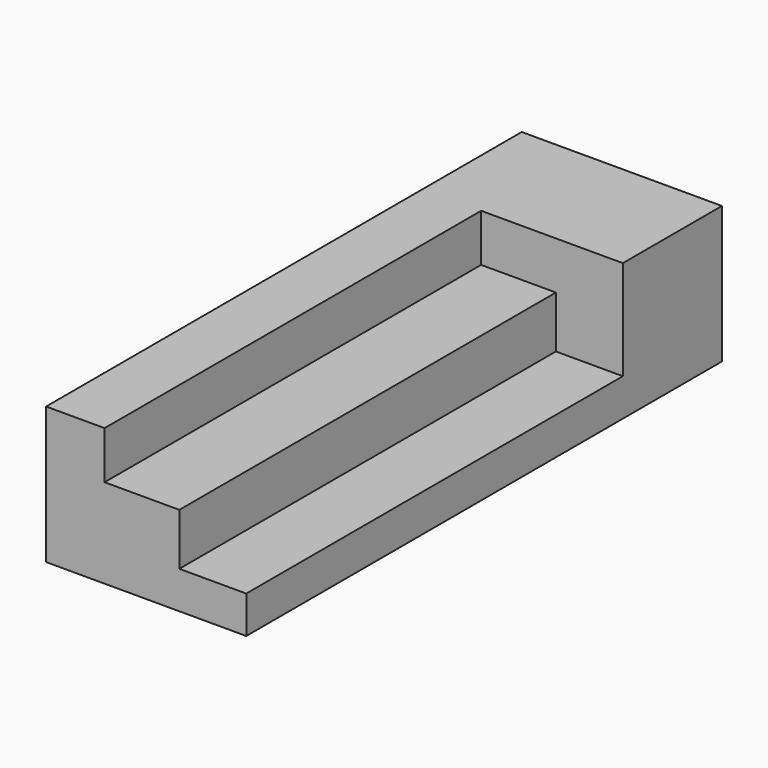
from build123d import *

# Parameters (mm, degrees)
F0_W     = 20.7835333422
F0_H     = 16.9197171926
F0_W_2   = 23.7798653543
F0_H_2   = 18.441430293
F1_DEPTH = 211.2
F2_DEPTH = 167.2


with BuildPart() as f1:
    # F0 (on Front) → F1 (new body)
    with BuildSketch(Plane.XZ):
        with Locations((-19.4875816815, 14.9991363287)):
            Rectangle(F0_W, F0_H)
        Polygon((-9.0958150104, 6.5392777324), (-29.8793483526, 6.5392777324), (-29.8793483526, -11.9021525607), (17.4585692585, -11.9021525607), (17.4585692585, 6.5392777324), align=None)
        Polygon((17.4585692585, -11.9021525607), (-29.8793483526, -11.9021525607), (-29.8793483526, -25.1875463873), (41.2384346128, -25.1875463873), (41.2384346128, -11.9021525607), align=None)
        Polygon((41.2384346128, 23.458994925), (-9.0958150104, 23.458994925), (-9.0958150104, 6.5392777324), (17.4585692585, 6.5392777324), (41.2384346128, 6.5392777324), align=None)
        with Locations((29.3485019356, -2.6814374141)):
            Rectangle(F0_W_2, F0_H_2)
    extrude(amount=-F1_DEPTH)

    # F0 (on Front) → F2 (cut)
    with BuildSketch(Plane.XZ):
        Polygon((41.2384346128, 23.458994925), (-9.0958150104, 23.458994925), (-9.0958150104, 6.5392777324), (17.4585692585, 6.5392777324), (41.2384346128, 6.5392777324), align=None)
        with Locations((29.3485019356, -2.6814374141)):
            Rectangle(F0_W_2, F0_H_2)
    extrude(amount=-F2_DEPTH, mode=Mode.SUBTRACT)


solid = f1.part
